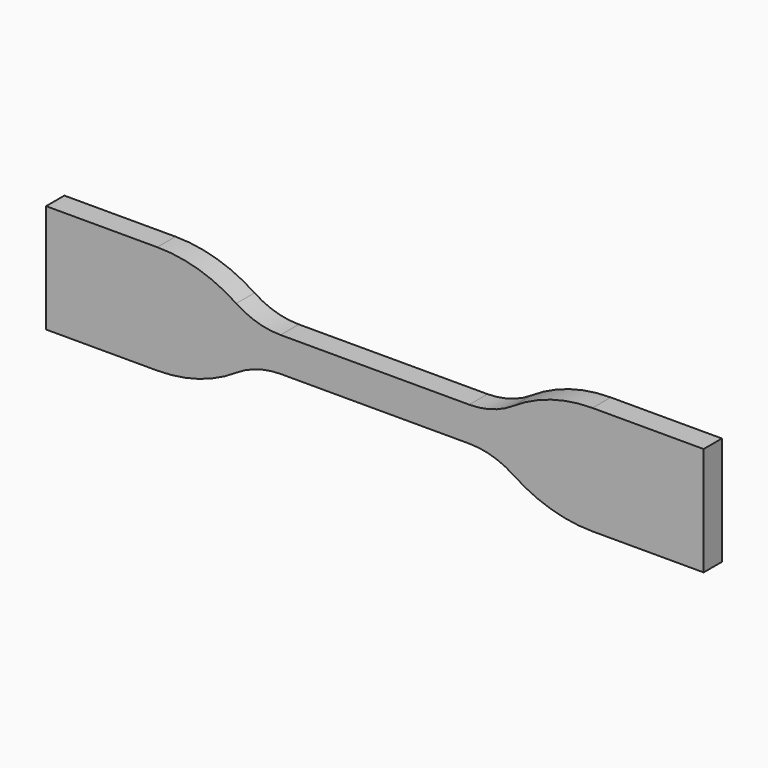
from build123d import *

# Parameters (mm, degrees)
F1_DEPTH = 2


with BuildPart() as f1:
    # F0 (on Front) → F1 (new body, symmetric)
    with BuildSketch(Plane.XZ):
        with BuildLine():
            Line((16.5, 3), (0, 3))
            Line((0, 3), (-16.5, 3))
            ThreePointArc((-16.5, 3), (-20.541452, 3.59602), (-24.238791, 5.333333))
            ThreePointArc((-24.238791, 5.333333), (-30.842111, 8.435958), (-38.06, 9.5))
            Line((-38.06, 9.5), (-57.5, 9.5))
            Line((-57.5, 9.5), (-57.5, -9.5))
            Line((-57.5, -9.5), (-38.06, -9.5))
            ThreePointArc((-38.06, -9.5), (-30.842111, -8.435958), (-24.238791, -5.333333))
            ThreePointArc((-24.238791, -5.333333), (-20.541452, -3.59602), (-16.5, -3))
            Line((-16.5, -3), (0, -3))
            Line((0, -3), (16.5, -3))
            ThreePointArc((16.5, -3), (20.541452, -3.59602), (24.238791, -5.333333))
            ThreePointArc((24.238791, -5.333333), (30.842111, -8.435958), (38.06, -9.5))
            Line((38.06, -9.5), (57.5, -9.5))
            Line((57.5, -9.5), (57.5, 9.5))
            Line((57.5, 9.5), (38.06, 9.5))
            ThreePointArc((38.06, 9.5), (30.842111, 8.435958), (24.238791, 5.333333))
            ThreePointArc((24.238791, 5.333333), (20.541452, 3.59602), (16.5, 3))
        make_face()
    extrude(amount=F1_DEPTH, both=True)


solid = f1.part
